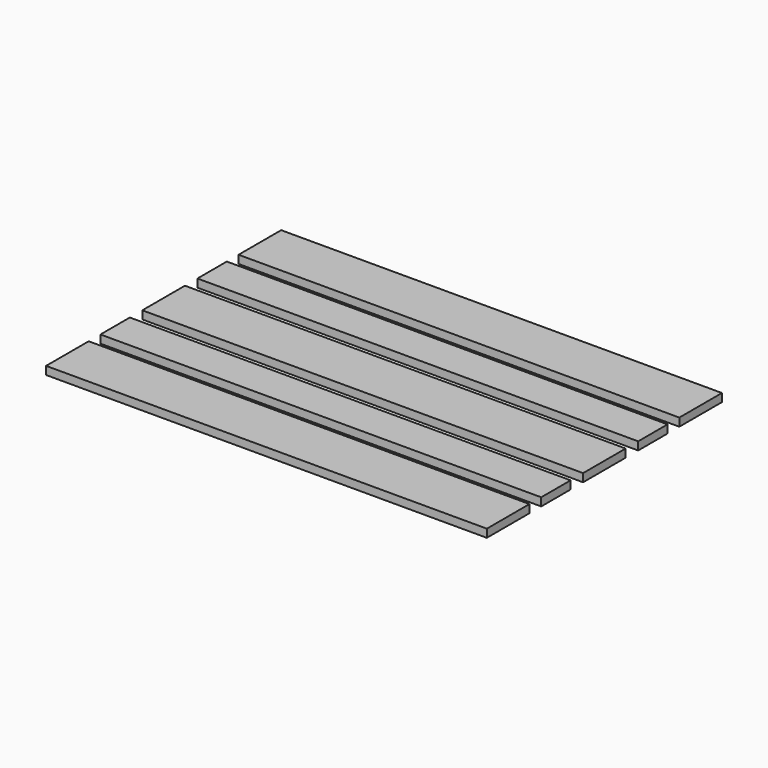
from build123d import *

# Parameters (mm, degrees)
F0_W     = 145
F0_H     = 145
F0_W_2   = 383
F0_W_3   = 382
F1_DEPTH = 22
F0_H_2   = 100


with BuildPart() as f1:
    # F0 (on Top) → F1 (new body)
    with BuildSketch(Plane.XY):
        with Locations((527.5, 327.5)):
            Rectangle(F0_W, F0_H)
        with Locations((263.5, 327.5)):
            Rectangle(F0_W_2, F0_H)
        with Locations((-0.5, 327.5)):
            Rectangle(F0_W, F0_H)
        with Locations((-264, 327.5)):
            Rectangle(F0_W_3, F0_H)
        with Locations((-527.5, 327.5)):
            Rectangle(F0_W, F0_H)
    extrude(amount=F1_DEPTH)


with BuildPart() as f1b:
    # F0 (on Top) → F1, piece 2 (new body)
    with BuildSketch(Plane.XY):
        with Locations((-527.5, 165)):
            Rectangle(F0_W, F0_H_2)
        with Locations((-264, 165)):
            Rectangle(F0_W_3, F0_H_2)
        with Locations((-0.5, 165)):
            Rectangle(F0_W, F0_H_2)
        with Locations((263.5, 165)):
            Rectangle(F0_W_2, F0_H_2)
        with Locations((527.5, 165)):
            Rectangle(F0_W, F0_H_2)
    extrude(amount=F1_DEPTH)


with BuildPart() as f1c:
    # F0 (on Top) → F1, piece 3 (new body)
    with BuildSketch(Plane.XY):
        with Locations((527.5, 0)):
            Rectangle(F0_W, F0_H)
        with Locations((263.5, 0)):
            Rectangle(F0_W_2, F0_H)
        with Locations((-0.5, 0)):
            Rectangle(F0_W, F0_H)
        with Locations((-264, 0)):
            Rectangle(F0_W_3, F0_H)
        with Locations((-527.5, 0)):
            Rectangle(F0_W, F0_H)
    extrude(amount=F1_DEPTH)


with BuildPart() as f1d:
    # F0 (on Top) → F1, piece 4 (new body)
    with BuildSketch(Plane.XY):
        with Locations((-527.5, -165)):
            Rectangle(F0_W, F0_H_2)
        with Locations((-264, -165)):
            Rectangle(F0_W_3, F0_H_2)
        with Locations((-0.5, -165)):
            Rectangle(F0_W, F0_H_2)
        with Locations((263.5, -165)):
            Rectangle(F0_W_2, F0_H_2)
        with Locations((527.5, -165)):
            Rectangle(F0_W, F0_H_2)
    extrude(amount=F1_DEPTH)


with BuildPart() as f1e:
    # F0 (on Top) → F1, piece 5 (new body)
    with BuildSketch(Plane.XY):
        with Locations((527.5, -327.5)):
            Rectangle(F0_W, F0_H)
        with Locations((263.5, -327.5)):
            Rectangle(F0_W_2, F0_H)
        with Locations((-0.5, -327.5)):
            Rectangle(F0_W, F0_H)
        with Locations((-264, -327.5)):
            Rectangle(F0_W_3, F0_H)
        with Locations((-527.5, -327.5)):
            Rectangle(F0_W, F0_H)
    extrude(amount=F1_DEPTH)


solid = Compound([f1.part, f1b.part, f1c.part, f1d.part, f1e.part])
